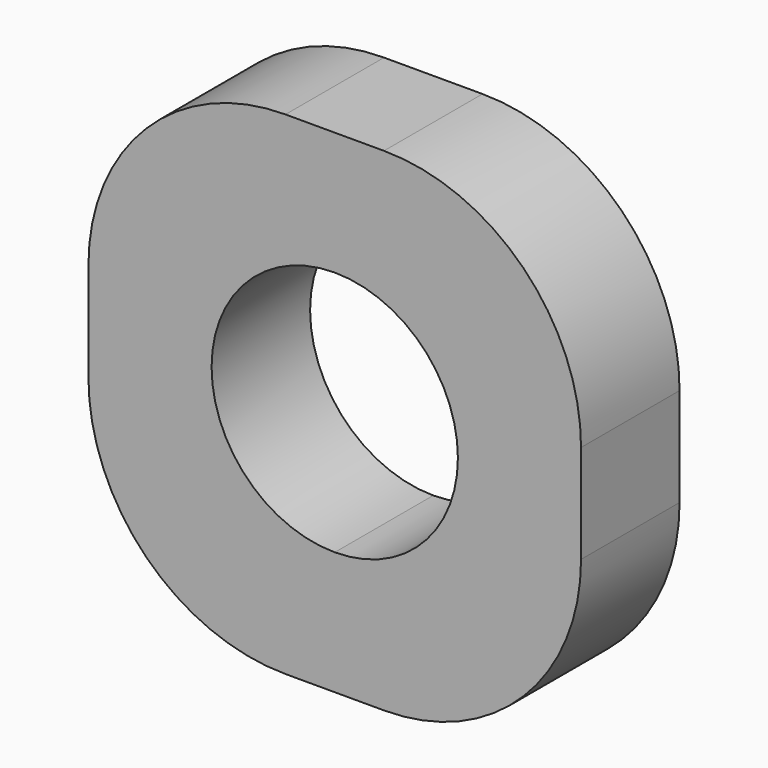
from build123d import *

# Parameters (mm, degrees)
F1_DEPTH = 3.175
F2_R     = 5.08
F3_R     = 5.08
F4_R     = 5.08
F5_R     = 5.08


with BuildPart() as f1:
    # F0 (on Front) → F1 (new body)
    with BuildSketch(Plane.XZ):
        with BuildLine():
            Line((-12.7, 0), (-6.35, 0))
            Line((-6.35, 0), (-6.35, 3.175))
            ThreePointArc((-6.35, 3.175), (-9.525, 6.35), (-6.35, 9.525))
            Line((-6.35, 9.525), (-6.35, 12.7))
            Line((-6.35, 12.7), (-12.7, 12.7))
            Line((-12.7, 12.7), (-12.7, 0))
        make_face()
        with BuildLine():
            Line((-6.35, 0), (0, 0))
            Line((0, 0), (0, 12.7))
            Line((0, 12.7), (-6.35, 12.7))
            Line((-6.35, 12.7), (-6.35, 9.525))
            ThreePointArc((-6.35, 9.525), (-4.104936, 8.595064), (-3.175, 6.35))
            ThreePointArc((-3.175, 6.35), (-4.104936, 4.104936), (-6.35, 3.175))
            Line((-6.35, 3.175), (-6.35, 0))
        make_face()
    extrude(amount=F1_DEPTH)

    # F2
    f2_edges = [f1.edges().sort_by_distance(p)[0] for p in [
        (-12.7, -1.5875, 0),
    ]]
    fillet(f2_edges, radius=F2_R)

    # F3
    f3_edges = [f1.edges().sort_by_distance(p)[0] for p in [
        (0, -1.5875, 0),
    ]]
    fillet(f3_edges, radius=F3_R)

    # F4
    f4_edges = [f1.edges().sort_by_distance(p)[0] for p in [
        (0, -1.5875, 12.7),
    ]]
    fillet(f4_edges, radius=F4_R)

    # F5
    f5_edges = [f1.edges().sort_by_distance(p)[0] for p in [
        (-12.7, -1.5875, 12.7),
    ]]
    fillet(f5_edges, radius=F5_R)


solid = f1.part
